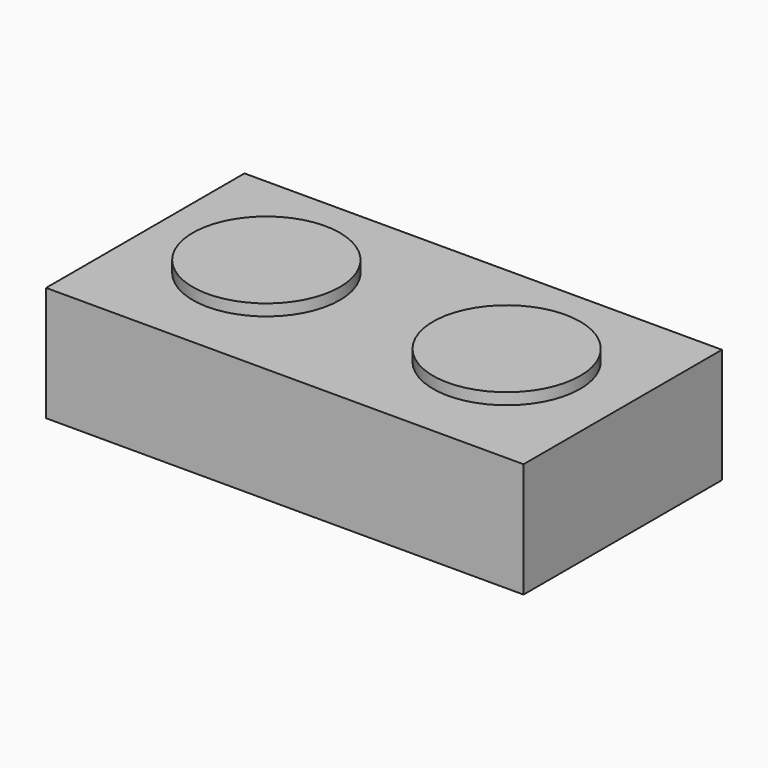
from build123d import *

# Parameters (mm, degrees)
EXPORT_W     = 41.596402
EXPORT_H     = 21.602024
PAD_DEPTH    = 10
EXPORT001_R  = 6.407439
PAD001_DEPTH = 1


with BuildPart() as part:
    # Export → Pad (new body)
    with BuildSketch(Plane.XY):
        with Locations((0, -0.272073)):
            Rectangle(EXPORT_W, EXPORT_H)
    extrude(amount=PAD_DEPTH)

    # Export001 (on Face6 of Pad) → Pad001 (join)
    with BuildSketch(Plane.XY.offset(10)):
        with Locations((-10.468659, 0)):
            Circle(EXPORT001_R)
        with Locations((10.468659, 0)):
            Circle(EXPORT001_R)
    extrude(amount=PAD001_DEPTH)


solid = part.part
